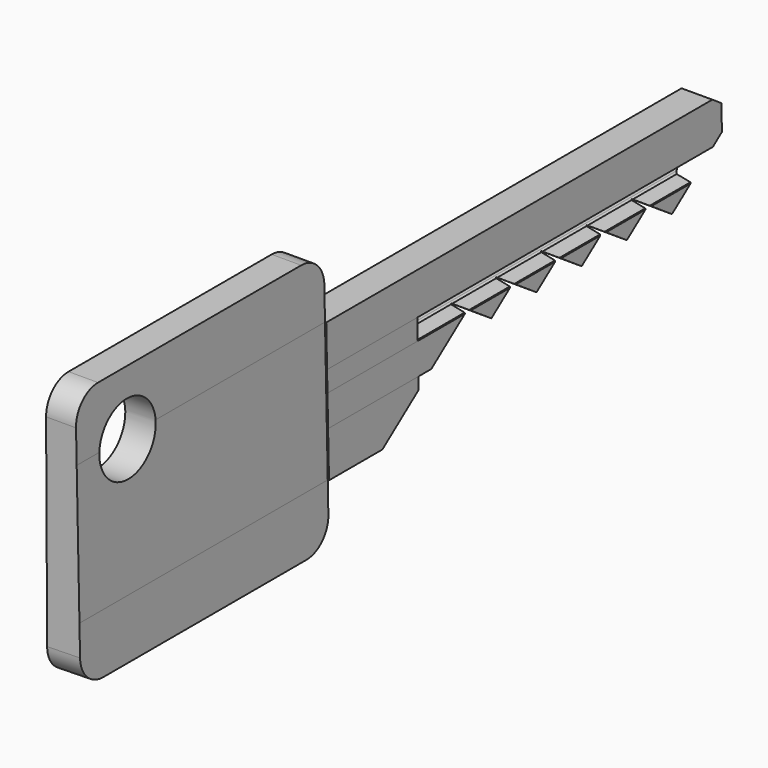
from build123d import *

# Parameters (mm, degrees)
F1_DEPTH  = 27
F2_DEPTH  = 8
F4_DEPTH  = 22
F6_R      = 2
F8_DEPTH  = 20
F9_DEPTH  = 12.5
F5_R      = 2.5
F10_DEPTH = 2.4607981127
F11_DEPTH = 12.5


with BuildPart() as f1:
    # F0 (on Front) → F1 (new body)
    with BuildSketch(Plane.XZ):
        Polygon((-0.7496952344, -6.6809873255), (0.8741063205, -6.6809873255), (0.9227698261, -6.0829417354), (0, -5.9686545786), (-0.1947072298, -5.7400796882), (-0.1947072298, -5.5496009013), (-0.1947072298, -5.0035609814), (0.1608536688, -5.0035609814), (0.8973725199, -4.86387623), (1.0449768405, -4.7641876783), (1.0008919092, -2.5655001409), (0.9438757817, -2.5243218008), (-0.1411063758, -2.4221134883), (-0.2590392278, -2.3199048873), (-0.3769720528, -2.1705233078), (-0.3769720528, -1.9110710604), (-0.266901421, -1.7774139032), (-0.0703466601, -1.5729969897), (0.1891055828, -1.3843043544), (0.9716137966, -1.1052864284), (0.9130675168, 1.8146449861), (-1.3546038697, 1.7419207949), (-1.3418151463, 0.7710934816), (-1.1574519325, 0.707130723), (-0.1783869789, 0.5052616682), (0, 0.2579721058), (0.0436689517, 0.1116170257), (0.0436689517, -0.0700651218), (0, -0.439608231), (-0.1037999714, -0.6445581556), (-1.2615459958, -0.9208470772), (-1.2615459958, -3.1862834304), (0, -3.5216339192), (0, -4.1217343841), (-1.2262458836, -4.457084873), (-1.2262458836, -6.5044873415), align=None)
    extrude(amount=-F1_DEPTH)

    # F0 (on Front) → F2 (join)
    with BuildSketch(Plane.XZ):
        Polygon((-0.7496952344, -6.6809873255), (0.8741063205, -6.6809873255), (0.9227698261, -6.0829417354), (0, -5.9686545786), (-0.1947072298, -5.7400796882), (-0.1947072298, -5.5496009013), (-0.1947072298, -5.0035609814), (0.1608536688, -5.0035609814), (0.8973725199, -4.86387623), (1.0449768405, -4.7641876783), (1.0008919092, -2.5655001409), (0.9438757817, -2.5243218008), (-0.1411063758, -2.4221134883), (-0.2590392278, -2.3199048873), (-0.3769720528, -2.1705233078), (-0.3769720528, -1.9110710604), (-0.266901421, -1.7774139032), (-0.0703466601, -1.5729969897), (0.1891055828, -1.3843043544), (0.9716137966, -1.1052864284), (0.9130675168, 1.8146449861), (-1.3546038697, 1.7419207949), (-1.3418151463, 0.7710934816), (-1.1574519325, 0.707130723), (-0.1783869789, 0.5052616682), (0, 0.2579721058), (0.0436689517, 0.1116170257), (0.0436689517, -0.0700651218), (0, -0.439608231), (-0.1037999714, -0.6445581556), (-1.2615459958, -0.9208470772), (-1.2615459958, -3.1862834304), (0, -3.5216339192), (0, -4.1217343841), (-1.2262458836, -4.457084873), (-1.2262458836, -6.5044873415), align=None)
        Polygon((0.9227698261, -6.0829417354), (0.8741063205, -6.6809873255), (-0.7496952344, -6.6809873255), (-1.2262458836, -6.5044873415), (-1.2262458836, -4.457084873), (0, -4.1217343841), (0, -3.5216339192), (-1.2615459958, -3.1862834304), (-1.2615459958, -0.9208470772), (-0.1037999714, -0.6445581556), (0, -0.439608231), (0.0436689517, -0.0700651218), (0.0436689517, 0.1116170257), (0, 0.2579721058), (-0.1783869789, 0.5052616682), (-1.1574519325, 0.707130723), (-1.3418151463, 0.7710934816), (-1.2262458836, -8.0020884052), (1.1092817108, -7.9713224635), (1.0449768405, -4.7641876783), (0.8973725199, -4.86387623), (0.1608536688, -5.0035609814), (-0.1947072298, -5.0035609814), (-0.1947072298, -5.5496009013), (-0.1947072298, -5.7400796882), (0, -5.9686545786), align=None)
        Polygon((0.9438757817, -2.5243218008), (1.0008919092, -2.5655001409), (0.9716137966, -1.1052864284), (0.1891055828, -1.3843043544), (-0.0703466601, -1.5729969897), (-0.266901421, -1.7774139032), (-0.3769720528, -1.9110710604), (-0.3769720528, -2.1705233078), (-0.2590392278, -2.3199048873), (-0.1411063758, -2.4221134883), align=None)
    extrude(amount=F2_DEPTH)

    # F3 (on face) → F4 (join)
    with BuildSketch(Plane.XZ.offset(8)):
        Polygon((0.7385039935, 6.1391890049), (-1.3546038697, 6.1391890049), (-1.3316788356, 1.7426560004), (0.8252700079, 1.8118293212), align=None)
        Polygon((0.8252700079, 1.8118293212), (-1.3316788356, 1.7426560004), (-1.3166525213, -1.1390708706), (-1.2262458836, -8.0020884052), (1.0214509446, -7.9724794596), align=None)
        Polygon((-1.2262458836, -8.0020884052), (-1.3166525213, -1.1390708706), (-1.2591139525, -12.1737421996), (1.1047383155, -12.1263456218), (1.0214509446, -7.9724794596), align=None)
    extrude(amount=F4_DEPTH)

    # F6
    f6_edges = [f1.edges().sort_by_distance(p)[0] for p in [
        (-0.30805, -30, 6.139189),
        (-0.077188, -30, -12.150044),
        (-0.30805, -8, 6.139189),
        (-0.077188, -8, -12.150044),
    ]]
    fillet(f6_edges, radius=F6_R)

    # F7 (on Right) → F8 (cut, symmetric)
    with BuildSketch(Plane.YZ):
        Polygon((6.4942785373, -3.7844735536), (4.42, -2.3853550139), (0, -5.5966729877), (-11.7603398875, -14.1410600597), (31.9972857833, -14.0815703198), (31.4160363876, 5.4046616789), (20.8858734821, 5.4046616789), (28.2785118313, 0.4182641504), (22.4941027949, -3.7843550139), (20.42, -2.3853550139), (18.4942785373, -3.7844735536), (16.42, -2.3853550139), (14.4942785373, -3.7844735536), (12.42, -2.3853550139), (10.4942785373, -3.7844735536), (8.42, -2.3853550139), align=None)
    extrude(amount=F8_DEPTH, both=True, mode=Mode.SUBTRACT)

    # F7 (on Right) → F9 (cut, symmetric)
    with BuildSketch(Plane.YZ):
        Polygon((6.4942785373, -3.7844735536), (4.42, -2.3853550139), (0, -5.5966729877), (-11.7603398875, -14.1410600597), (31.9972857833, -14.0815703198), (31.4160363876, 5.4046616789), (20.8858734821, 5.4046616789), (28.2785118313, 0.4182641504), (22.4941027949, -3.7843550139), (20.42, -2.3853550139), (18.4942785373, -3.7844735536), (16.42, -2.3853550139), (14.4942785373, -3.7844735536), (12.42, -2.3853550139), (10.4942785373, -3.7844735536), (8.42, -2.3853550139), align=None)
    extrude(amount=F9_DEPTH, both=True, mode=Mode.SUBTRACT)

    # F5 (on face) → F10 (cut, through all)
    with BuildSketch(Plane(origin=(0.8612519677, 0, 0.0172685901), x_dir=(0, 1, 0), z_dir=(0.999799048, 0, 0.0200465376))):
        with Locations((-25.5, 1.6231508744)):
            Circle(F5_R)
    extrude(amount=-F10_DEPTH, mode=Mode.SUBTRACT)

    # F7 (on Right) → F11 (cut, symmetric)
    with BuildSketch(Plane.YZ):
        Polygon((6.4942785373, -3.7844735536), (4.42, -2.3853550139), (0, -5.5966729877), (-11.7603398875, -14.1410600597), (31.9972857833, -14.0815703198), (31.4160363876, 5.4046616789), (20.8858734821, 5.4046616789), (28.2785118313, 0.4182641504), (22.4941027949, -3.7843550139), (20.42, -2.3853550139), (18.4942785373, -3.7844735536), (16.42, -2.3853550139), (14.4942785373, -3.7844735536), (12.42, -2.3853550139), (10.4942785373, -3.7844735536), (8.42, -2.3853550139), align=None)
    extrude(amount=F11_DEPTH, both=True, mode=Mode.SUBTRACT)


solid = f1.part
